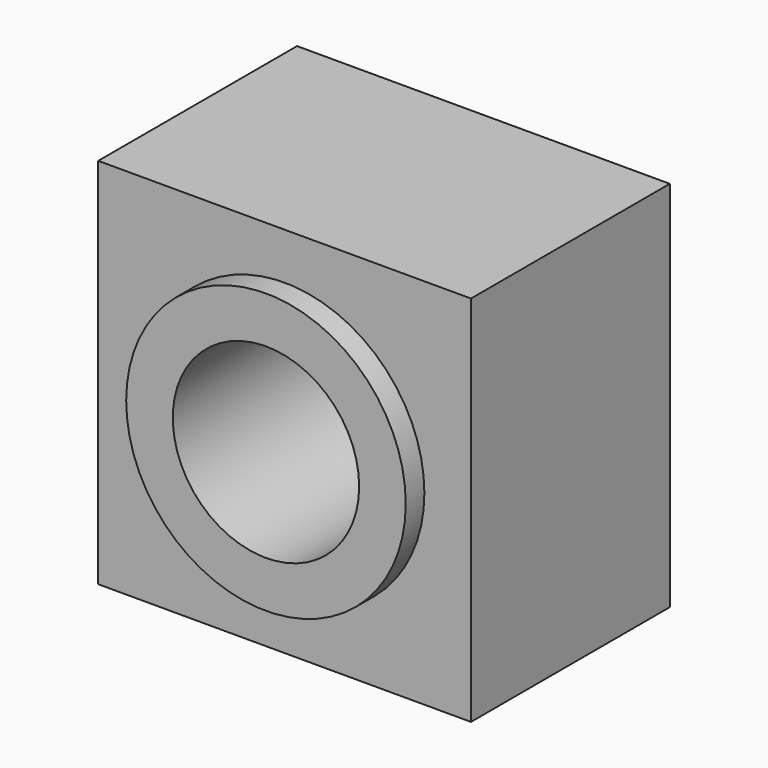
from build123d import *

# Parameters (mm, degrees)
F0_W     = 152.4
F0_H     = 152.4
F0_R     = 38.1
F1_DEPTH = 101.6
F2_R     = 57.15
F2_R_2   = 38.1
F3_DEPTH = 9.525
F4_R     = 57.15
F4_R_2   = 38.1
F5_DEPTH = 9.525


with BuildPart() as f1:
    # F0 (on Front) → F1 (new body)
    with BuildSketch(Plane.XZ):
        Rectangle(F0_W, F0_H)
        Circle(F0_R, mode=Mode.SUBTRACT)
    extrude(amount=F1_DEPTH)

    # F2 (on face) → F3 (join)
    with BuildSketch(Plane.XZ.offset(101.6)):
        Circle(F2_R)
        Circle(F2_R_2, mode=Mode.SUBTRACT)
    extrude(amount=F3_DEPTH)

    # F4 (on face) → F5 (join)
    with BuildSketch(Plane(origin=(0, 0, 0), x_dir=(-1, 0, 0), z_dir=(0, 1, 0))):
        Circle(F4_R)
        Circle(F4_R_2, mode=Mode.SUBTRACT)
    extrude(amount=F5_DEPTH)


solid = f1.part
